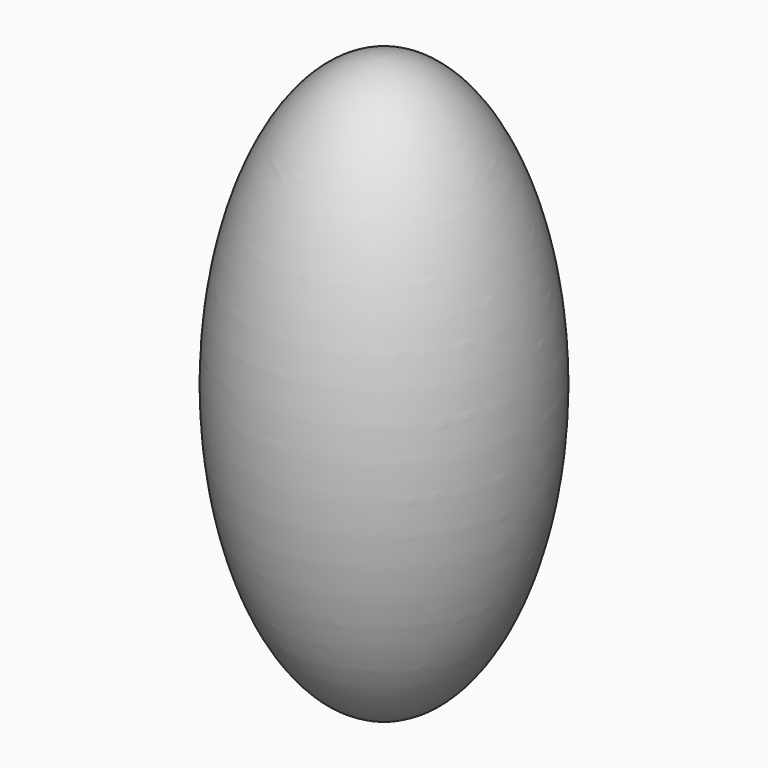
from build123d import *


with BuildPart() as f1:
    # F0 (on Front) → F1 (revolve)
    with BuildSketch(Plane.XZ):
        with BuildLine():
            Line((0, 40), (0, -40))
            add(Edge.make_bspline(
                [(0, -40), (20, -40), (20, 0), (20, 40), (0, 40)],
                knots=[3.1415926536, 3.1415926536, 3.1415926536, 4.7123889804, 4.7123889804, 6.2831853072, 6.2831853072, 6.2831853072], degree=2, weights=[1, 0.7071067812, 1, 0.7071067812, 1]))
        make_face()
    revolve(axis=Axis((0, 0, 0), (0, 0, -1)))


solid = f1.part
